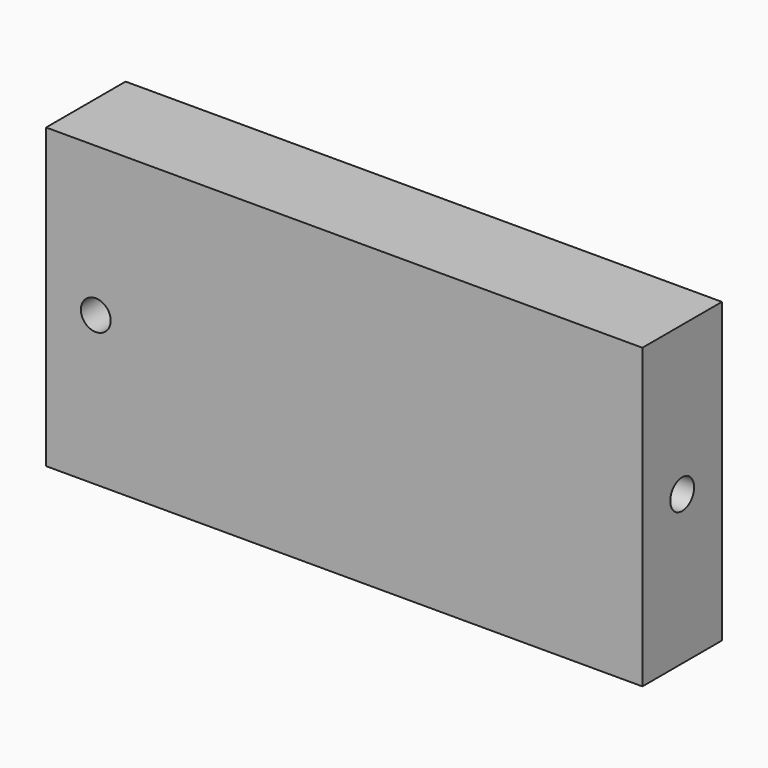
from build123d import *

# Parameters (mm, degrees)
F1_DEPTH = 10
F2_R     = 1.5
F3_DEPTH = 20


with BuildPart() as f1:
    # F0 (on Front) → F1 (new body)
    with BuildSketch(Plane.XZ):
        Polygon((30, -15), (30, 15), (-20, 15), (-20, 0), (-20, -15), align=None)
        with BuildLine():
            Line((-20, 0), (-20, 15))
            Line((-20, 15), (-30, 15))
            Line((-30, 15), (-30, 0))
            Line((-30, 0), (-26.5, 0))
            ThreePointArc((-26.5, 0), (-25, 1.5), (-23.5, 0))
            Line((-23.5, 0), (-20, 0))
        make_face()
        with BuildLine():
            Line((-20, -15), (-20, 0))
            Line((-20, 0), (-23.5, 0))
            ThreePointArc((-23.5, 0), (-25, -1.5), (-26.5, 0))
            Line((-26.5, 0), (-30, 0))
            Line((-30, 0), (-30, -15))
            Line((-30, -15), (-20, -15))
        make_face()
    extrude(amount=F1_DEPTH)

    # F2 (on face) → F3 (cut)
    with BuildSketch(Plane.YZ.offset(30)):
        with Locations((-5, 0)):
            Circle(F2_R)
    extrude(amount=-F3_DEPTH, mode=Mode.SUBTRACT)


solid = f1.part
